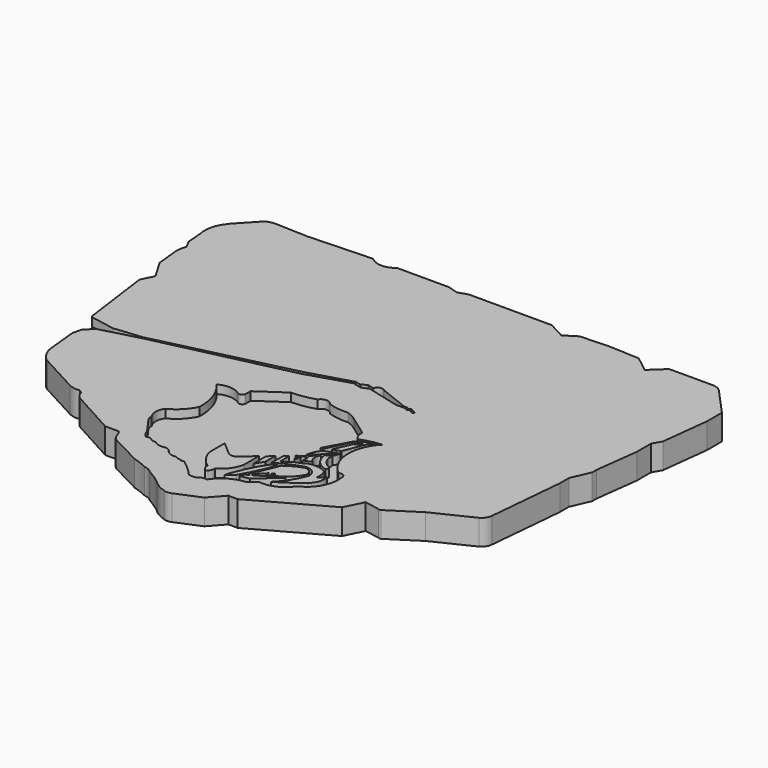
from build123d import *

# Parameters (mm, degrees)
F1_DEPTH = 7.62
F3_DEPTH = 2.54
F5_DEPTH = 2.54
F7_DEPTH = 2.54


with BuildPart() as f1:
    # F0 (on Top) → F1 (new body)
    with BuildSketch(Plane.XY):
        with BuildLine():
            ThreePointArc((-74.0824341774, 49.6840327978), (-74.0913585324, 49.4303951699), (-74.3035525084, 49.2911636829))
            ThreePointArc((-74.3035525084, 49.2911636829), (-76.18439574, 45.6291785986), (-76.2380212545, 41.5127687156))
            Line((-76.2380212545, 41.5127687156), (-75.893856585, 36.7711894214))
            Line((-75.893856585, 36.7711894214), (-74.6223474635, 34.1630198301))
            Line((-74.6223474635, 34.1630198301), (-74.9269798398, 33.153988421))
            ThreePointArc((-74.9269798398, 33.153988421), (-75.1601747401, 31.9699231109), (-75.156504165, 30.7631186334))
            Line((-75.156504165, 30.7631186334), (-74.4606778026, 23.9508543164))
            Line((-74.4606778026, 23.9508543164), (-71.1237564683, 18.3141604066))
            Line((-71.1237564683, 18.3141604066), (-71.1237564683, 17.6246762276))
            Line((-71.1237564683, 17.6246762276), (-72.8164315224, 14.3826492131))
            Line((-72.8164315224, 14.3826492131), (-69.9061527848, -7.1409502998))
            Line((-69.9061527848, -7.1409502998), (-66.7717754841, -10.9591539949))
            Line((-66.7717754841, -10.9591539949), (-68.1558549404, -16.6909210384))
            Line((-68.1558549404, -16.6909210384), (-67.2773942351, -25.2912081778))
            ThreePointArc((-67.2773942351, -25.2912081778), (-66.7556484219, -27.7887595856), (-65.4221698642, -29.9640335143))
            ThreePointArc((-65.4221698642, -29.9640335143), (-64.7289155143, -30.7932548591), (-63.850171864, -31.4225554466))
            Line((-63.850171864, -31.4225554466), (-52.0467981696, -37.7939939499))
            ThreePointArc((-52.0467981696, -37.7939939499), (-50.3417128866, -38.3679866654), (-48.543151468, -38.4122617543))
            ThreePointArc((-48.543151468, -38.4122617543), (-47.6932742651, -39.0990306713), (-47.2203865647, -40.084078908))
            ThreePointArc((-47.2203865647, -40.084078908), (-46.6719786412, -40.934376508), (-45.8779074252, -41.5614396334))
            Line((-45.8779074252, -41.5614396334), (-32.5026959181, -48.9316880703))
            Line((-32.5026959181, -48.9316880703), (-28.2602552325, -48.9316880703))
            Line((-28.2602552325, -48.9316880703), (-27.044326067, -51.7484694719))
            ThreePointArc((-27.044326067, -51.7484694719), (-26.5960271655, -52.3266021272), (-26.0019116104, -52.7534931898))
            Line((-26.0019116104, -52.7534931898), (-16.7086366564, -57.5795508921))
            ThreePointArc((-16.7086366564, -57.5795508921), (-14.5709905049, -58.2935360299), (-12.4981924891, -59.1783039272))
            ThreePointArc((-12.4981924891, -59.1783039272), (-11.068689938, -59.6163795962), (-9.8306117579, -60.4545623064))
            ThreePointArc((-9.8306117579, -60.4545623064), (-7.5535172488, -61.8443409985), (-5.3994394839, -63.4180605412))
            ThreePointArc((-5.3994394839, -63.4180605412), (-3.5358684918, -64.8461081972), (-1.3730921783, -65.7596811652))
            ThreePointArc((-1.3730921783, -65.7596811652), (-0.2002899128, -65.9954808598), (0.9725123527, -65.7596811652))
            Line((0.9725123527, -65.7596811652), (8.2850167528, -62.6953542233))
            Line((8.2850167528, -62.6953542233), (12.0858419687, -58.4216117859))
            Line((12.0858419687, -58.4216117859), (14.9233248085, -58.4216117859))
            Line((14.9233248085, -58.4216117859), (36.6248078644, -46.3535562158))
            Line((36.6248078644, -46.3535562158), (39.3572002649, -40.8537425101))
            Line((39.3572002649, -40.8537425101), (43.8236072659, -41.7096316814))
            ThreePointArc((43.8236072659, -41.7096316814), (44.2622061819, -41.8382217299), (44.7008050978, -41.7096316814))
            Line((44.7008050978, -41.7096316814), (53.5324476659, -36.0440500081))
            Line((53.5324476659, -36.0440500081), (65.0197416544, -30.4687377065))
            ThreePointArc((65.0197416544, -30.4687377065), (66.2647508145, -29.3392086847), (66.8238252401, -27.7538634837))
            Line((66.8238252401, -27.7538634837), (68.9256563783, -4.8613329418))
            Line((68.9256563783, -4.8613329418), (68.9256563783, -1.4808755368))
            Line((68.9256563783, -1.4808755368), (71.3953226805, 4.1940896772))
            Line((71.3953226805, 4.1940896772), (71.3953226805, 5.858045537))
            Line((71.3953226805, 5.858045537), (73.0417594314, 18.9069621265))
            Line((73.0417594314, 18.9069621265), (73.0417594314, 24.2316182703))
            Line((73.0417594314, 24.2316182703), (74.5407864451, 26.8233269453))
            Line((74.5407864451, 26.8233269453), (76.2253254652, 41.3826555014))
            Line((76.2253254652, 41.3826555014), (76.2253254652, 46.8989796937))
            Line((76.2253254652, 46.8989796937), (68.5125365853, 55.379267782))
            ThreePointArc((68.5125365853, 55.379267782), (67.2979484708, 56.2060254583), (65.8577382565, 56.4967952669))
            Line((65.8577382565, 56.4967952669), (52.6924431324, 56.4967952669))
            Line((52.6924431324, 56.4967952669), (48.5053770244, 52.5729507208))
            Line((48.5053770244, 52.5729507208), (43.6933785677, 56.2972798944))
            Line((43.6933785677, 56.2972798944), (34.1527052224, 56.717634201))
            Line((34.1527052224, 56.717634201), (25.8619077504, 56.3368573785))
            Line((25.8619077504, 56.3368573785), (22.237284109, 54.0422201157))
            Line((22.237284109, 54.0422201157), (17.2169748694, 56.717634201))
            Line((17.2169748694, 56.717634201), (-7.7595887706, 56.717634201))
            Line((-7.7595887706, 56.717634201), (-10.6134572998, 55.7691268623))
            Line((-10.6134572998, 55.7691268623), (-13.6131457984, 56.717634201))
            Line((-13.6131457984, 56.717634201), (-29.3409861624, 56.717634201))
            ThreePointArc((-29.3409861624, 56.717634201), (-32.9726195271, 55.3907882167), (-36.5464091301, 56.8663589656))
            Line((-36.5464091301, 56.8663589656), (-55.5010996759, 56.1106316745))
            ThreePointArc((-55.5010996759, 56.1106316745), (-55.667495355, 55.9636778889), (-55.8338910341, 56.1106316745))
            Line((-55.8338910341, 56.1106316745), (-55.8997653425, 56.1106316745))
            Line((-55.8997653425, 56.1106316745), (-65.8228546381, 56.4594455063))
            ThreePointArc((-65.8228546381, 56.4594455063), (-67.07609185, 56.2702938226), (-68.2812929153, 55.8780282736))
            Line((-68.2812929153, 55.8780282736), (-74.0824341774, 49.6840327978))
        make_face()
    extrude(amount=F1_DEPTH)

    # F2 (on face) → F3 (cut)
    with BuildSketch(Plane.XY.offset(7.62)):
        Polygon((-53.84574458, -8.0307610333), (-62.2011497617, -8.8812275346), (-69.5880275829, -7.5284808059), (-66.7717754841, -10.9591539949), (-67.5058954001, -13.9993005136), (-65.0955066085, -11.6350529715), (-53.7884885262, -8.5932729344), align=None)
    extrude(amount=-F3_DEPTH, mode=Mode.SUBTRACT)

    # F4 (on face) → F5 (cut)
    with BuildSketch(Plane.XY.offset(7.62)):
        with BuildLine():
            Line((-13.4403156117, 1.6841805773), (-53.84574458, -8.0307610333))
            Line((-53.84574458, -8.0307610333), (-53.7884885262, -8.5932729344))
            Line((-53.7884885262, -8.5932729344), (-13.2984528318, 0.635664037))
            Line((-13.2984528318, 0.635664037), (-0.6018778876, 4.5662077232))
            Line((-0.6018778876, 4.5662077232), (1.9378734287, 3.9122933522))
            Line((1.9378734287, 3.9122933522), (4.0949885733, 4.7587561421))
            Line((4.0949885733, 4.7587561421), (13.8975717127, 2.2348673083))
            Line((13.8975717127, 2.2348673083), (16.5764782578, 2.2348673083))
            Line((16.5764782578, 2.2348673083), (17.501918599, 1.764029148))
            Line((17.501918599, 1.764029148), (18.0052276701, 2.1212166175))
            Line((18.0052276701, 2.1212166175), (19.3690340966, 1.4393132878))
            ThreePointArc((19.3690340966, 1.4393132878), (19.8509293424, 1.5196682961), (19.7303537279, 1.993104117))
            Line((19.7303537279, 1.993104117), (18.2243511081, 2.8040285688))
            Line((18.2243511081, 2.8040285688), (17.4134261906, 2.4178740568))
            Line((17.4134261906, 2.4178740568), (16.9114246964, 2.8040285688))
            Line((16.9114246964, 2.8040285688), (15.4440375045, 2.8040285688))
            Line((15.4440375045, 2.8040285688), (14.942037873, 3.1901830807))
            Line((14.942037873, 3.1901830807), (7.2189480998, 6.2408037484))
            ThreePointArc((7.2189480998, 6.2408037484), (5.6558617362, 6.6533357097), (4.515866749, 5.5071101524))
            Line((4.515866749, 5.5071101524), (2.6237086859, 6.0091107152))
            Line((2.6237086859, 6.0091107152), (1.0018609464, 5.1209554076))
            Line((1.0018609464, 5.1209554076), (-0.7744506001, 5.4298792966))
            Line((-0.7744506001, 5.4298792966), (-13.4403156117, 1.6841805773))
        make_face()
    extrude(amount=-F5_DEPTH, mode=Mode.SUBTRACT)

    # F6 (on face) → F7 (cut)
    with BuildSketch(Plane.XY.offset(7.62)):
        with BuildLine():
            ThreePointArc((-21.6980054975, -47.1274293959), (-20.9058551118, -46.937143024), (-20.1137047261, -47.1274293959))
            ThreePointArc((-20.1137047261, -47.1274293959), (-19.2816631852, -47.697102126), (-18.2732902467, -47.6991422474))
            ThreePointArc((-18.2732902467, -47.6991422474), (-16.8188807558, -48.5195177989), (-15.1501270011, -48.5793836415))
            ThreePointArc((-15.1501270011, -48.5793836415), (-14.0212782495, -48.6330457978), (-13.10441643, -49.2937602103))
            ThreePointArc((-13.10441643, -49.2937602103), (-11.7363156009, -50.4659865773), (-9.9415089935, -50.622459501))
            ThreePointArc((-9.9415089935, -50.622459501), (-9.3230068633, -50.9331744657), (-8.6478916928, -51.085844636))
            ThreePointArc((-8.6478916928, -51.085844636), (-8.219291448, -51.1206875066), (-7.856274955, -51.3511896133))
            Line((-7.856274955, -51.3511896133), (-6.8198740482, -51.3511896133))
            ThreePointArc((-6.8198740482, -51.3511896133), (-4.1289074156, -53.4909112923), (-1.7226351192, -55.9464283288))
            ThreePointArc((-1.7226351192, -55.9464283288), (-0.6993257266, -55.9960696533), (0.323983666, -55.9464283288))
            ThreePointArc((0.323983666, -55.9464283288), (1.5386333438, -55.1546116175), (2.9884495307, -55.1741197705))
            ThreePointArc((2.9884495307, -55.1741197705), (6.3690678477, -51.8594223412), (10.8704539016, -50.3920018673))
            Line((10.8704539016, -50.3920018673), (13.4963048622, -48.4998449683))
            ThreePointArc((13.4963048622, -48.4998449683), (18.1527797558, -47.7199004847), (21.7090696096, -44.6144416928))
            ThreePointArc((21.7090696096, -44.6144416928), (26.0655141534, -40.551861594), (27.1009858698, -34.6857756376))
            ThreePointArc((27.1009858698, -34.6857756376), (26.5364220163, -33.3421338415), (25.0804275274, -33.2774370909))
            ThreePointArc((25.0804275274, -33.2774370909), (20.7189789966, -24.6360325323), (24.1625756025, -15.5896106735))
            ThreePointArc((24.1625756025, -15.5896106735), (20.9424041388, -16.0506955794), (17.8489498794, -17.0569978654))
            ThreePointArc((17.8489498794, -17.0569978654), (17.0645621841, -15.9265101213), (16.5858212858, -14.6365202963))
            ThreePointArc((16.5858212858, -14.6365202963), (16.6385579761, -14.0203916987), (16.287330538, -13.5114369914))
            Line((16.287330538, -13.5114369914), (11.4196222275, -10.0213829428))
            ThreePointArc((11.4196222275, -10.0213829428), (9.6209594849, -8.7815249425), (7.6123224571, -7.9225646332))
            ThreePointArc((7.6123224571, -7.9225646332), (4.5583693036, -7.8287171858), (1.5883123269, -7.1116406471))
            ThreePointArc((1.5883123269, -7.1116406471), (-0.2459212556, -6.1060440478), (-2.080154838, -7.1116406471))
            ThreePointArc((-2.080154838, -7.1116406471), (-5.5848125238, -7.9948663186), (-9.1853970662, -8.3087198436))
            Line((-9.1853970662, -8.3087198436), (-16.9945191592, -13.6732207611))
            Line((-16.9945191592, -13.6732207611), (-16.9945191592, -15.593261458))
            ThreePointArc((-16.9945191592, -15.593261458), (-17.5573473517, -16.4120470934), (-18.5509193689, -16.4124183357))
            ThreePointArc((-18.5509193689, -16.4124183357), (-21.8998909042, -15.1557722144), (-25.3772307187, -15.9941501915))
            ThreePointArc((-25.3772307187, -15.9941501915), (-22.2881814814, -21.3084223562), (-21.4157681912, -27.3930430412))
            ThreePointArc((-21.4157681912, -27.3930430412), (-23.7408467675, -30.7668066692), (-27.0564928651, -33.1740379333))
            ThreePointArc((-27.0564928651, -33.1740379333), (-27.8923883356, -35.720191896), (-27.0564928651, -38.2663458586))
            ThreePointArc((-27.0564928651, -38.2663458586), (-27.0189061631, -39.1952666615), (-26.6332626343, -40.0411896408))
            Line((-26.6332626343, -40.0411896408), (-23.2363846153, -44.7854176164))
            ThreePointArc((-23.2363846153, -44.7854176164), (-22.69149182, -46.1037555821), (-21.6980054975, -47.1274293959))
        make_face()
        with BuildLine():
            Line((-5.201509688, -43.8330732286), (-5.201509688, -38.1613187492))
            Line((-5.201509688, -38.1613187492), (-1.2422491563, -41.5744744241))
            ThreePointArc((-1.2422491563, -41.5744744241), (0.0204381067, -42.0436071652), (1.2831253698, -41.5744744241))
            Line((1.2831253698, -41.5744744241), (5.1236074046, -38.2637140065))
            Line((5.1236074046, -38.2637140065), (5.1236074046, -43.8330732286))
            ThreePointArc((5.1236074046, -43.8330732286), (3.7111945529, -47.1818109223), (0.9455984109, -49.5398677886))
            ThreePointArc((0.9455984109, -49.5398677886), (0.8879297639, -50.5326226875), (0.3648974816, -51.3783916831))
            ThreePointArc((0.3648974816, -51.3783916831), (-0.1059405913, -51.6090201224), (-0.5767786643, -51.3783916831))
            ThreePointArc((-0.5767786643, -51.3783916831), (-1.1326259017, -50.5398754007), (-1.2424461311, -49.5398677886))
            ThreePointArc((-1.2424461311, -49.5398677886), (-3.7515487864, -47.0538579688), (-5.201509688, -43.8330732286))
        make_face(mode=Mode.SUBTRACT)
        with BuildLine():
            ThreePointArc((9.9746566266, -39.8321859539), (10.4048887939, -39.3904015333), (10.9303398058, -39.0676409006))
            ThreePointArc((10.9303398058, -39.0676409006), (11.3035274279, -38.9265207149), (11.4764450118, -39.2860807478))
            ThreePointArc((11.4764450118, -39.2860807478), (9.4575070504, -44.2077096793), (6.9983843714, -48.9248335361))
            ThreePointArc((6.9983843714, -48.9248335361), (5.9957324895, -49.962559223), (4.8685753718, -50.8635044098))
            ThreePointArc((4.8685753718, -50.8635044098), (5.1525112561, -49.5057192919), (5.6604277343, -48.2148975134))
            ThreePointArc((5.6604277343, -48.2148975134), (7.5533944837, -43.8875960295), (9.9746566266, -39.8321859539))
        make_face(mode=Mode.SUBTRACT)
        Polygon((10.7054756954, -48.4881959856), (7.8479330987, -48.9515811205), (8.3568914881, -47.6840143365), (16.9225633144, -42.8889542818), align=None, mode=Mode.SUBTRACT)
        Polygon((6.5644285642, -42.0123077929), (6.4994855784, -37.3688712716), (8.0905938521, -35.6154032052), (8.0905938521, -39.5119935274), align=None, mode=Mode.SUBTRACT)
        with BuildLine():
            ThreePointArc((11.8129011244, -32.4853248894), (12.1769031442, -32.4196815431), (12.546595186, -32.408092171))
            ThreePointArc((12.546595186, -32.408092171), (13.0086468531, -31.8230678454), (13.5613903403, -31.3228480518))
            ThreePointArc((13.5613903403, -31.3228480518), (13.687257405, -31.3238281843), (13.6991562322, -31.4491353929))
            ThreePointArc((13.6991562322, -31.4491353929), (13.3727020591, -31.9915515373), (12.9873687401, -32.4938520789))
            ThreePointArc((12.9873687401, -32.4938520789), (13.0212099815, -33.131018281), (12.9873687401, -33.7681844831))
            ThreePointArc((12.9873687401, -33.7681844831), (12.7003574744, -34.0511682764), (12.4133462086, -33.7681844831))
            ThreePointArc((12.4133462086, -33.7681844831), (12.4005109813, -33.3089660853), (12.4133462086, -32.8497476876))
            ThreePointArc((12.4133462086, -32.8497476876), (12.1091147885, -32.8920268573), (11.8048833683, -32.8497476876))
            ThreePointArc((11.8048833683, -32.8497476876), (11.6940865799, -32.6650104207), (11.8129011244, -32.4853248894))
        make_face(mode=Mode.SUBTRACT)
        with BuildLine():
            ThreePointArc((9.7643779591, -46.7422269285), (9.0783593373, -46.8961848479), (8.9741293341, -46.2008714676))
            ThreePointArc((8.9741293341, -46.2008714676), (10.7550036285, -42.5384735311), (12.2862309217, -38.7648791075))
            ThreePointArc((12.2862309217, -38.7648791075), (14.6974277144, -37.2344043821), (17.3193272203, -36.1022092402))
            ThreePointArc((17.3193272203, -36.1022092402), (19.1212550214, -36.8762737373), (19.6497334047, -38.7648791075))
            ThreePointArc((19.6497334047, -38.7648791075), (17.3064483032, -41.8220029734), (14.0396971256, -43.8629165292))
            ThreePointArc((14.0396971256, -43.8629165292), (14.0068438929, -43.4413846323), (13.8545585796, -43.0469512939))
            ThreePointArc((13.8545585796, -43.0469512939), (13.510145247, -42.8824915358), (13.1657319143, -43.0469512939))
            ThreePointArc((13.1657319143, -43.0469512939), (13.1106561098, -43.6548814993), (13.4986648336, -44.1261157393))
            ThreePointArc((13.4986648336, -44.1261157393), (13.2263484159, -44.3999207757), (12.8752989694, -44.5608235896))
            ThreePointArc((12.8752989694, -44.5608235896), (12.6925440422, -44.2817304415), (12.3974569142, -44.1261157393))
            ThreePointArc((12.3974569142, -44.1261157393), (12.4424071001, -43.8553895801), (12.3974569142, -43.5846634209))
            ThreePointArc((12.3974569142, -43.5846634209), (12.2055531612, -43.512357901), (12.0629677549, -43.6597503722))
            ThreePointArc((12.0629677549, -43.6597503722), (12.0651843357, -43.9009543798), (12.1517097577, -44.1261157393))
            ThreePointArc((12.1517097577, -44.1261157393), (10.7017778308, -45.2003158161), (9.7643779591, -46.7422269285))
        make_face(mode=Mode.SUBTRACT)
        with BuildLine():
            Line((9.5071941614, -38.9747582376), (9.6167586744, -34.3814827502))
            Line((9.6167586744, -34.3814827502), (10.6558492407, -33.7969958782))
            Line((10.6558492407, -33.7969958782), (10.7532637194, -37.3688712716))
            ThreePointArc((10.7532637194, -37.3688712716), (12.3235543945, -36.2417282796), (13.9679517597, -35.2257452905))
            ThreePointArc((13.9679517597, -35.2257452905), (15.3405486469, -34.7481251995), (16.5948867798, -34.0141095221))
            ThreePointArc((16.5948867798, -34.0141095221), (19.3356386233, -33.8183012966), (21.9447724521, -34.6799753606))
            ThreePointArc((21.9447724521, -34.6799753606), (22.4932862988, -36.394408374), (22.4571339786, -38.1940864027))
            ThreePointArc((22.4571339786, -38.1940864027), (23.5243468109, -37.5109169108), (24.1791978478, -36.4260971546))
            ThreePointArc((24.1791978478, -36.4260971546), (24.2567532517, -39.2889429764), (22.6867422462, -41.6841395199))
            ThreePointArc((22.6867422462, -41.6841395199), (19.2062163885, -44.3489088581), (15.4999848455, -46.6896146536))
            ThreePointArc((15.4999848455, -46.6896146536), (18.4895025231, -42.9999676599), (20.55137977, -38.7221910059))
            ThreePointArc((20.55137977, -38.7221910059), (19.5245412726, -36.3558975762), (17.0383639634, -35.6683917344))
            ThreePointArc((17.0383639634, -35.6683917344), (13.167462048, -37.0816861781), (9.5071941614, -38.9747582376))
        make_face(mode=Mode.SUBTRACT)
        with BuildLine():
            Line((14.181336388, -30.8691486716), (16.287330538, -28.8869254291))
            ThreePointArc((16.287330538, -28.8869254291), (15.8262849464, -30.76200532), (16.6167058051, -32.5237438083))
            ThreePointArc((16.6167058051, -32.5237438083), (15.6157581398, -33.153747076), (14.5060522482, -33.5628353059))
            ThreePointArc((14.5060522482, -33.5628353059), (14.6633114353, -32.1774631021), (14.181336388, -30.8691486716))
        make_face(mode=Mode.SUBTRACT)
        with BuildLine():
            ThreePointArc((13.4008126333, -30.8691486716), (13.9824895018, -28.6291749468), (15.2648575604, -26.7026852816))
            ThreePointArc((15.2648575604, -26.7026852816), (16.9359619758, -26.1463898569), (18.4977538884, -25.3322273493))
            ThreePointArc((18.4977538884, -25.3322273493), (18.4868574484, -25.8879213644), (18.2451829314, -26.3884291053))
            ThreePointArc((18.2451829314, -26.3884291053), (15.7354114886, -28.5340941785), (13.4008126333, -30.8691486716))
        make_face(mode=Mode.SUBTRACT)
        with BuildLine():
            ThreePointArc((21.4886087924, -33.6457937956), (18.3024914071, -31.6916531613), (16.9101133943, -28.2230377197))
            ThreePointArc((16.9101133943, -28.2230377197), (18.4392673996, -26.868935569), (19.0207678825, -24.9109361321))
            ThreePointArc((19.0207678825, -24.9109361321), (19.0700964923, -26.1409273355), (18.5336936265, -27.2488910705))
            ThreePointArc((18.5336936265, -27.2488910705), (18.6083191129, -28.011973016), (18.5336936265, -28.7750549614))
            ThreePointArc((18.5336936265, -28.7750549614), (19.6053129022, -30.9099434689), (21.4886087924, -32.3794037104))
            ThreePointArc((21.4886087924, -32.3794037104), (21.7520797349, -33.012598753), (21.4886087924, -33.6457937956))
        make_face(mode=Mode.SUBTRACT)
        with BuildLine():
            Line((17.8161375225, -19.1316828132), (14.6110551432, -25.9280018508))
            Line((14.6110551432, -25.9280018508), (13.838746585, -25.9280018508))
            Line((13.838746585, -25.9280018508), (17.8161375225, -18.5910668224))
            ThreePointArc((17.8161375225, -18.5910668224), (20.0966270968, -17.0701130486), (22.6816833019, -16.15829207))
            ThreePointArc((22.6816833019, -16.15829207), (22.0536895484, -16.7097061956), (21.4073732495, -17.2395259142))
            Line((21.4073732495, -17.2395259142), (18.6656769365, -24.1516903043))
            Line((18.6656769365, -24.1516903043), (16.3873657584, -24.8853843659))
            Line((16.3873657584, -24.8853843659), (18.6270605773, -19.6722988039))
            Line((18.6270605773, -19.6722988039), (19.9399869889, -19.0158355981))
            ThreePointArc((19.9399869889, -19.0158355981), (20.4024769598, -18.3307770682), (19.5924472064, -18.1662961841))
            Line((19.5924472064, -18.1662961841), (17.8161375225, -19.1316828132))
        make_face(mode=Mode.SUBTRACT)
    extrude(amount=-F7_DEPTH, mode=Mode.SUBTRACT)


solid = f1.part
